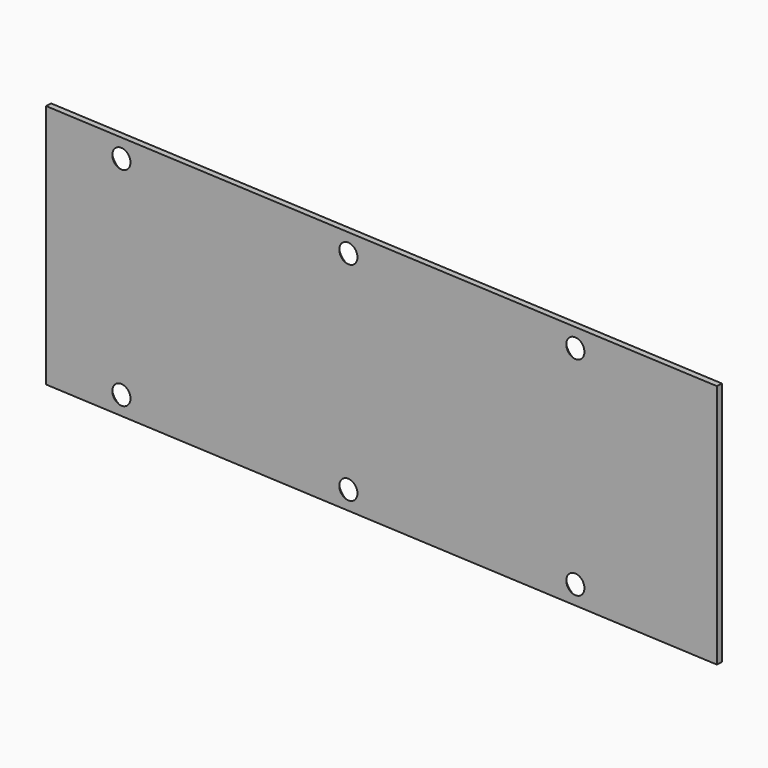
from build123d import *

# Parameters (mm, degrees)
SKETCH005_W      = 295.497289
SKETCH005_H      = 102.6
SKETCH005_R      = 3.5
PAD005_DEPTH     = 2.5
HOLE_D           = 4.5
HOLE_DEPTH       = 25
HOLE_CSINK_D     = 13
HOLE_CSINK_ANGLE = 90


with BuildPart() as belt_backing_plate:
    # Sketch005 (on DatumPlane) → Pad005 (new body)
    with BuildSketch(Plane(origin=(2.415223, -39.927017, 0), x_dir=(0.998175, 0.060381, 0), z_dir=(0.060381, -0.998175, 0))):
        with Locations((2.570994, 63.5)):
            Rectangle(SKETCH005_W, SKETCH005_H)
        with Locations((-112, 107)):
            Circle(SKETCH005_R, mode=Mode.SUBTRACT)
        with Locations((-12, 107)):
            Circle(SKETCH005_R, mode=Mode.SUBTRACT)
        with Locations((88, 107)):
            Circle(SKETCH005_R, mode=Mode.SUBTRACT)
        with Locations((-112, 20)):
            Circle(SKETCH005_R, mode=Mode.SUBTRACT)
        with Locations((-12, 20)):
            Circle(SKETCH005_R, mode=Mode.SUBTRACT)
        with Locations((88, 20)):
            Circle(SKETCH005_R, mode=Mode.SUBTRACT)
    extrude(amount=-PAD005_DEPTH)

    # Hole
    with Locations(Plane(origin=(2.415223, -39.927017, 0), x_dir=(0.998175, 0.060381, 0), z_dir=(0.060381, -0.998175, 0))):
        with Locations((-112, 107), (-12, 107), (88, 107), (-112, 20), (-12, 20), (88, 20)):
            CounterSinkHole(HOLE_D / 2, HOLE_CSINK_D / 2, depth=HOLE_DEPTH, counter_sink_angle=HOLE_CSINK_ANGLE)


with BuildPart() as part_mirroring:
    # Part__Mirroring: instance of Belt backing plate
    add(belt_backing_plate.part.mirror(Plane(origin=(0, 0, 0), x_dir=(-1, 0, 0), z_dir=(0, -1, 0))))


solid = part_mirroring.part
